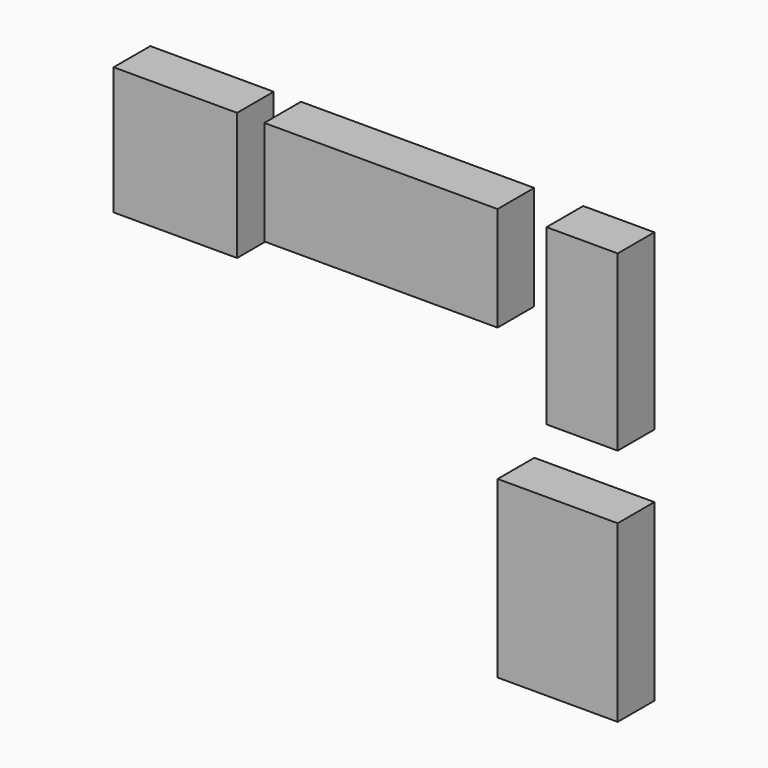
from build123d import *

# Parameters (mm, degrees)
F0_W     = 68.424488
F0_H     = 70.843533
F1_DEPTH = 25.4


with BuildPart() as f1:
    # F0 (on Front) → F1 (new body)
    with BuildSketch(Plane.XZ):
        with Locations((-105.487756, 78.878233)):
            Rectangle(F0_W, F0_H)
        Polygon((73.095329, 114.3), (-56.188315, 114.3), (-56.188315, 56.437605), (-13.736966, 56.437605), (73.095329, 56.437605), align=None)
        Polygon((139.7, 114.3), (100.260511, 114.3), (100.260511, 58.597744), (100.260511, 18.036937), (139.7, 18.036937), (139.7, 41.555787), align=None)
        Polygon((73.176195, -84.193148), (73.176195, -114.3), (139.7, -114.3), (139.7, -17.3653), (73.176195, -17.3653), (73.176195, -37.183945), (73.176195, -65.83265), align=None)
    extrude(amount=F1_DEPTH)


solid = f1.part
